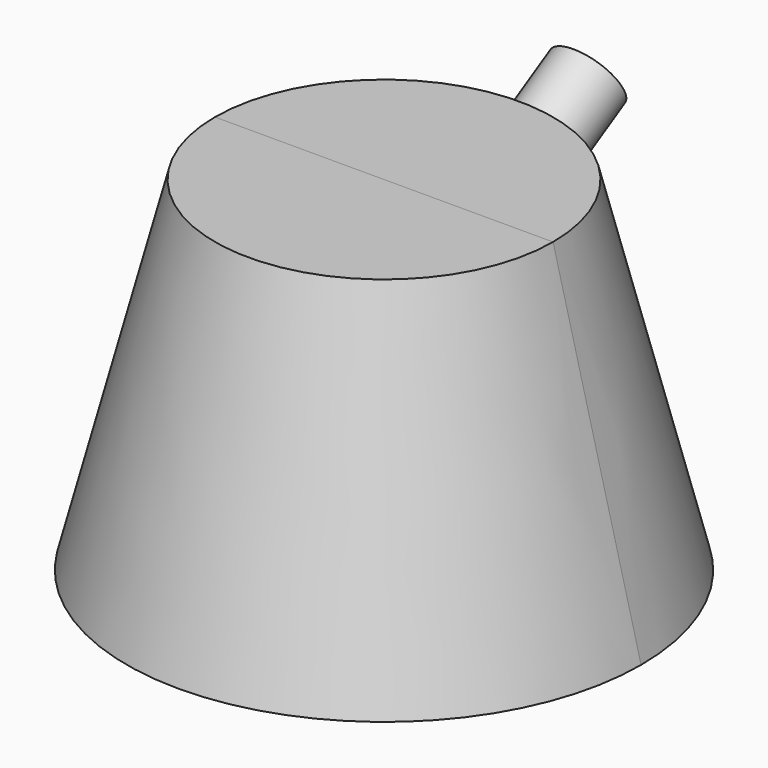
from build123d import *

# Parameters (mm, degrees)
F1_ANGLE = 180
F4_R     = 6.68337
F5_DEPTH = 40


with BuildPart() as f1:
    # F0 (on Front) → F1 (revolve)
    with BuildSketch(Plane.XZ):
        Polygon((0, 64.147353), (0, 0), (47.980133, 0), (31.552151, 64.147353), align=None)
    revolve(axis=Axis((0, 0, 32.073677), (0, 0, -1)), revolution_arc=F1_ANGLE)

    # F3: F1 across plane


with BuildPart() as f1_1:
    add(f1.part)
    add(f1.part.mirror(Plane.XZ))

    # F4 (on face) → F5 (join)
    with BuildSketch(Plane(origin=(0, 27.776619, 16.036838), x_dir=(-1, 0, 0), z_dir=(0, 0.866025, 0.5))):
        with Locations((0, 29.759701)):
            Circle(F4_R)
    extrude(amount=F5_DEPTH)


solid = f1_1.part
